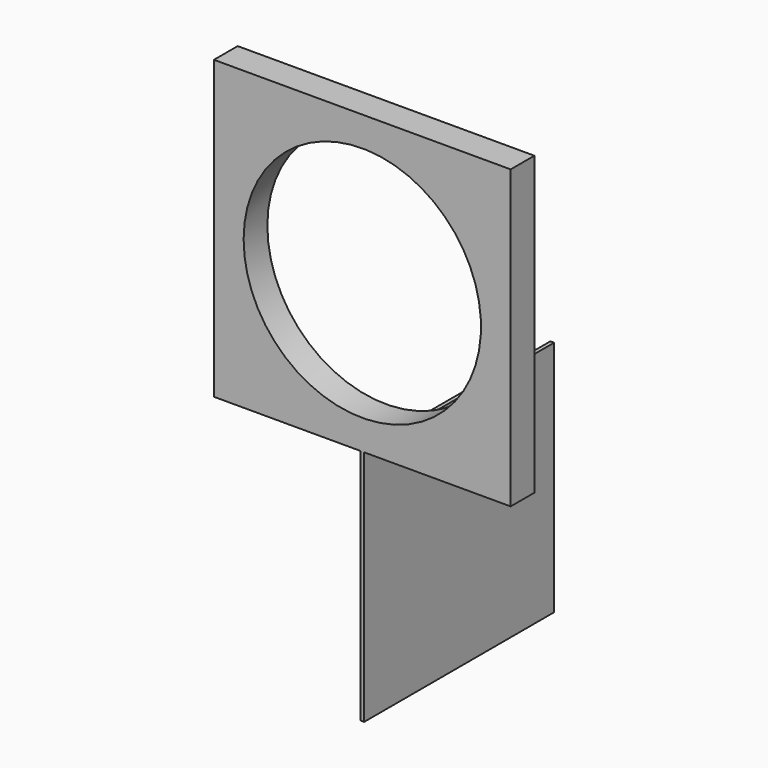
from build123d import *

# Parameters (mm, degrees)
F0_W     = 127
F0_H     = 127
F1_DEPTH = 12.7
F3_D     = 101.6
F4_W     = 1.5875
F4_H     = 88.9
F4_H_2   = 12.7
F5_DEPTH = 101.6


with BuildPart() as f1:
    # F0 (on Front) → F1 (new body)
    with BuildSketch(Plane.XZ):
        with Locations((-63.5, 63.5)):
            Rectangle(F0_W, F0_H)
    extrude(amount=F1_DEPTH)

    # F3 (through all)
    with Locations(Plane.XZ.offset(12.7)):
        with Locations((-63.5, 63.5)):
            Hole(F3_D / 2)

    # F4 (on face) → F5 (join)
    with BuildSketch(Plane(origin=(0, 0, 0), x_dir=(1, 0, 0), z_dir=(0, 0, -1))):
        with Locations((-63.5, -44.45)):
            Rectangle(F4_W, F4_H)
        with Locations((-63.5, 6.35)):
            Rectangle(F4_W, F4_H_2)
    extrude(amount=F5_DEPTH)


solid = f1.part
